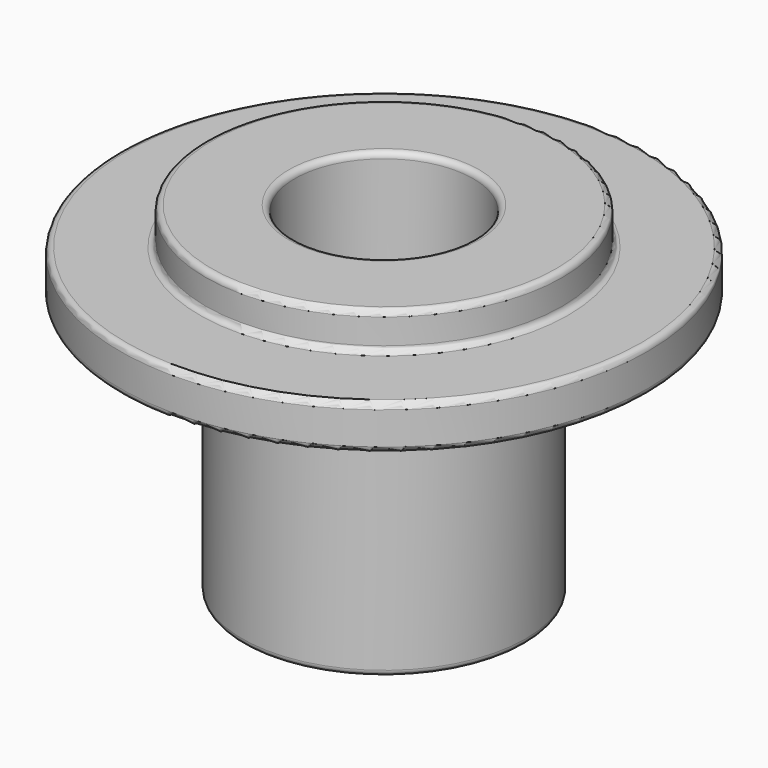
from build123d import *

# Parameters (mm, degrees)
F0_R     = 9.525
F0_R_2   = 6
F1_DEPTH = 17.5
F2_R     = 17.75
F2_R_2   = 6
F3_DEPTH = 3
F4_R     = 12
F4_R_2   = 6
F5_DEPTH = 2.5
F6_R     = 0.4


with BuildPart() as f1:
    # F0 (on Top) → F1 (new body)
    with BuildSketch(Plane.XY):
        Circle(F0_R)
        Circle(F0_R_2, mode=Mode.SUBTRACT)
    extrude(amount=-F1_DEPTH)

    # F2 (on Top) → F3 (join)
    with BuildSketch(Plane.XY):
        Circle(F2_R)
        Circle(F2_R_2, mode=Mode.SUBTRACT)
    extrude(amount=F3_DEPTH)

    # F4 (on face) → F5 (join)
    with BuildSketch(Plane.XY.offset(3)):
        Circle(F4_R)
        Circle(F4_R_2, mode=Mode.SUBTRACT)
    extrude(amount=F5_DEPTH)

    # F6
    f6_edges = [f1.edges().sort_by_distance(p)[0] for p in [
        (-12, 0, 5.5),
        (-6, 0, 5.5),
        (-17.75, 0, 3),
        (-12, 0, 3),
        (-17.75, 0, 0),
        (-9.525, 0, 0),
        (-9.525, 0, -17.5),
        (-6, 0, -17.5),
    ]]
    fillet(f6_edges, radius=F6_R)


solid = f1.part
